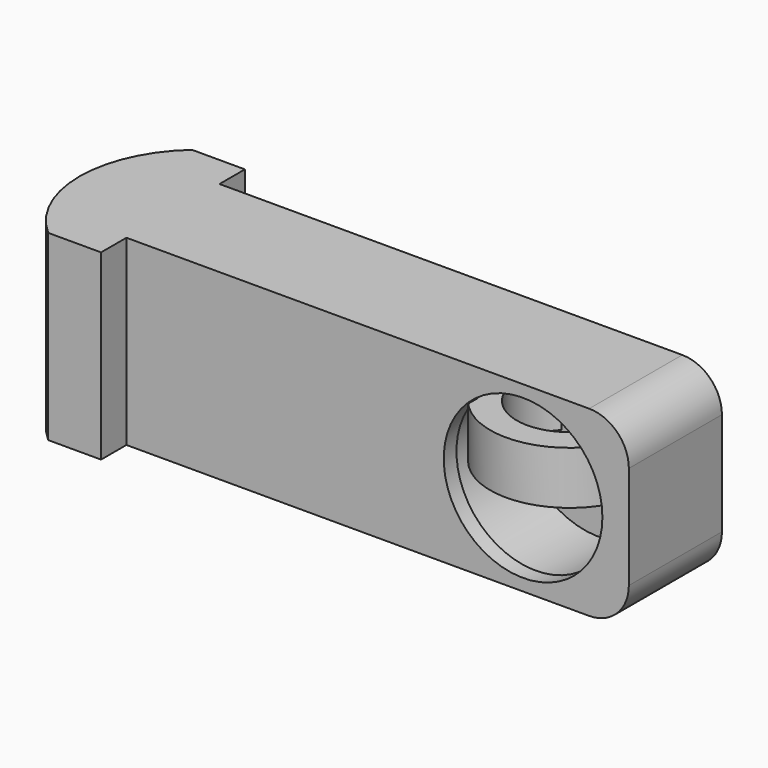
from build123d import *

# Parameters (mm, degrees)
SKETCH002_R      = 3
SKETCH002_R_2    = 2
EXTRUDE002_DEPTH = 2
SKETCH001_R      = 3.1
EXTRUDE001_DEPTH = 3
SKETCH004_R      = 3
EXTRUDE004_DEPTH = 1
SKETCH003_R      = 1
EXTRUDE003_DEPTH = 10
EXTRUDE_DEPTH    = 3.45
FILLET_R         = 1.5


with BuildPart() as obj1:
    # Sketch002 → Extrude002 (new body)
    with BuildSketch(Plane.XY):
        Circle(SKETCH002_R)
        Circle(SKETCH002_R_2, mode=Mode.SUBTRACT)
    extrude(amount=EXTRUDE002_DEPTH)


with BuildPart() as obj2:
    # Sketch001 → Extrude001 (new body)
    with BuildSketch(Plane.XZ):
        Circle(SKETCH001_R)
    extrude(amount=EXTRUDE001_DEPTH)


with BuildPart() as obj2_1:
    # Extrude001 placement: moved
    add(obj2.part.moved(Location((0, 0.4, 0))))


with BuildPart() as obj3:
    # Sketch004 → Extrude004 (new body)
    with BuildSketch(Plane.XZ):
        Circle(SKETCH004_R)
    extrude(amount=EXTRUDE004_DEPTH)


with BuildPart() as obj3_1:
    # Extrude004 placement: moved
    add(obj3.part.moved(Location((0, -2.6, 0))))


with BuildPart() as fusion:
    # Sketch003 → Extrude003 (new body)
    with BuildSketch(Plane.XZ):
        Circle(SKETCH003_R)
    extrude(amount=EXTRUDE003_DEPTH)


with BuildPart() as fusion_1:
    # Extrude003 placement: moved
    add(fusion.part.moved(Location((0, 3, 0))))

    # Fusion: union obj2, obj3
    add(obj2_1.part)
    add(obj3_1.part)


with BuildPart() as fusion_2:
    # Fusion placement: moved
    add(fusion_1.part.moved(Location((0, 1, 0))))


with BuildPart() as fillet_body:
    # Sketch → Extrude (new body, symmetric)
    with BuildSketch(Plane.XY):
        with BuildLine():
            Line((-15, 2.2), (4, 2.2))
            Line((4, 2.2), (4, -2.2))
            Line((4, -2.2), (-15, -2.2))
            Line((-15, -3.4), (-15, -2.2))
            Line((-17, -3.4), (-15, -3.4))
            ThreePointArc((-17, 3.4), (-18.534314, 0), (-17, -3.4))
            Line((-15, 3.4), (-17, 3.4))
            Line((-15, 2.2), (-15, 3.4))
        make_face()
    extrude(amount=EXTRUDE_DEPTH, both=True)

    # Cut: cut Fusion
    add(fusion_2.part, mode=Mode.SUBTRACT)

    # Fillet
    fillet_edges = [fillet_body.edges().sort_by_distance(p)[0] for p in [
        (4, 0, -3.45),
        (4, 0, 3.45),
    ]]
    fillet(fillet_edges, radius=FILLET_R)


solid = Compound([obj1.part, fillet_body.part])
